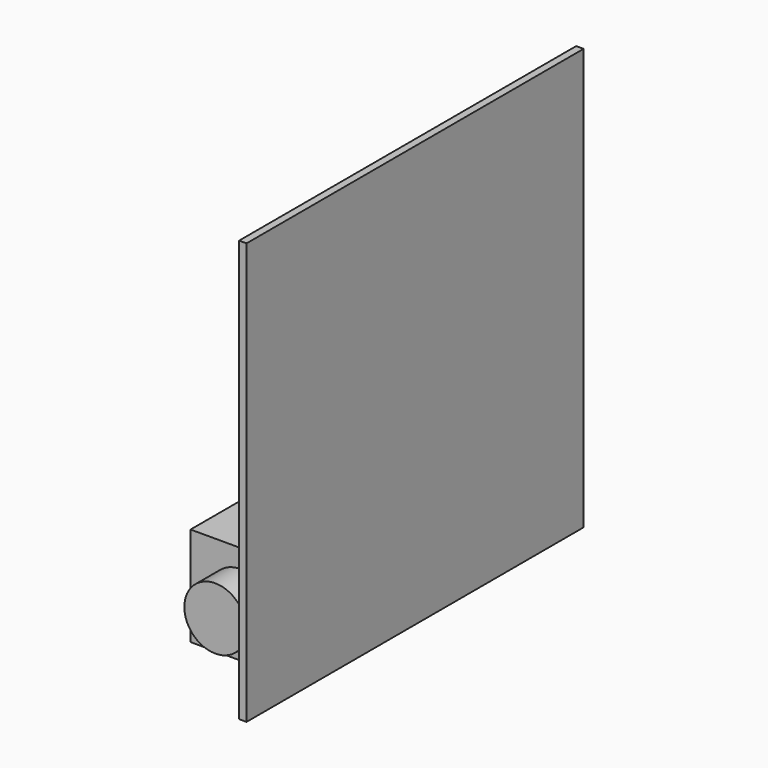
from build123d import *

# Parameters (mm, degrees)
SKETCH_W        = 40
SKETCH_H        = 40
PAD_DEPTH       = 119
SKETCH001_R     = 12.5
PAD001_DEPTH    = 12.5
SKETCH002_W     = 9
SKETCH002_H     = 34
POCKET_DEPTH    = 3
SKETCH003_R     = 1
POCKET001_DEPTH = 8
SKETCH004_W     = 170
SKETCH004_H     = 170
PAD002_DEPTH    = 3


with BuildPart() as part:
    # Sketch → Pad (new body)
    with BuildSketch(Plane.XZ):
        Rectangle(SKETCH_W, SKETCH_H)
    extrude(amount=PAD_DEPTH)

    # Sketch001 (on Face6 of Pad) → Pad001 (join)
    with BuildSketch(Plane.XZ.offset(119)):
        Circle(SKETCH001_R)
    extrude(amount=PAD001_DEPTH)

    # Sketch002 (on Face4 of Pad001) → Pocket (cut)
    with BuildSketch(Plane(origin=(0, 0, 0), x_dir=(1, 0, 0), z_dir=(0, 1, 0))):
        Rectangle(SKETCH002_W, SKETCH002_H)
    extrude(amount=-POCKET_DEPTH, mode=Mode.SUBTRACT)

    # Sketch003 (on Face12 of Pocket) → Pocket001 (cut)
    with BuildSketch(Plane(origin=(0, -3, 0), x_dir=(1, 0, 0), z_dir=(0, 1, 0))):
        with Locations((0, 5.973904)):
            Circle(SKETCH003_R)
        with Locations((0, -6.00258)):
            Circle(SKETCH003_R)
    extrude(amount=-POCKET001_DEPTH, mode=Mode.SUBTRACT)

    # Sketch004 (on Face3 of Pocket001) → Pad002 (join)
    with BuildSketch(Plane(origin=(20, 0, 0), x_dir=(0, 0, 1), z_dir=(1, 0, 0))):
        with Locations((61, 59.5)):
            Rectangle(SKETCH004_W, SKETCH004_H)
    extrude(amount=PAD002_DEPTH)


solid = part.part
